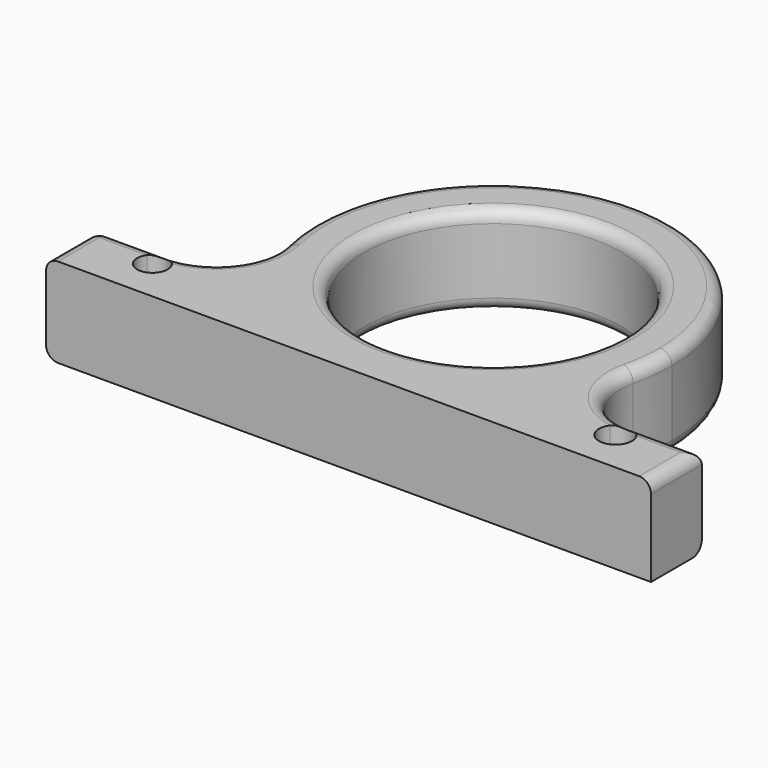
from build123d import *

# Parameters (mm, degrees)
F1_DEPTH = 7.62
F2_R     = 10.9999999964
F3_DEPTH = 25.4
F4_R     = 5.08
F5_R     = 1.016
F7_DEPTH = 25.4


with BuildPart() as f1:
    # F0 (on Top) → F1 (new body)
    with BuildSketch(Plane.XY):
        with BuildLine():
            ThreePointArc((11.5985213726, 1.7570371274), (0, -3.5970182051), (-11.5985213726, 1.7570371274))
            Line((-11.5985213726, 1.7570371274), (-25.8833840489, 1.7570371274))
            Line((-25.8833840489, 1.7570371274), (-25.8833840489, -3.6632029805))
            Line((-25.8833840489, -3.6632029805), (25.7008876652, -3.6632029805))
            Line((25.7008876652, -3.6632029805), (25.7008876652, 1.7570371274))
            Line((25.7008876652, 1.7570371274), (11.5985213726, 1.7570371274))
        make_face()
        with BuildLine():
            Line((11.5985213726, 1.7570371274), (-11.5985213726, 1.7570371274))
            ThreePointArc((-11.5985213726, 1.7570371274), (0, -3.5970182051), (11.5985213726, 1.7570371274))
        make_face()
        with BuildLine():
            ThreePointArc((11.5985213726, 1.7570371274), (14.3006829508, 6.3753383806), (15.24, 11.6429817949))
            ThreePointArc((15.24, 11.6429817949), (-5.2676434144, 25.9436647457), (-11.5985213726, 1.7570371274))
            Line((-11.5985213726, 1.7570371274), (11.5985213726, 1.7570371274))
        make_face()
    extrude(amount=F1_DEPTH)

    # F2 (on face) → F3 (cut)
    with BuildSketch(Plane.XY.offset(7.62)):
        with Locations((0, 11.6429817949)):
            Circle(F2_R)
    extrude(amount=-F3_DEPTH, mode=Mode.SUBTRACT)

    # F4
    f4_edges = [f1.edges().sort_by_distance(p)[0] for p in [
        (11.598521, 1.757037, 3.81),
        (-11.598521, 1.757037, 3.81),
    ]]
    fillet(f4_edges, radius=F4_R)

    # F5
    f5_edges = [f1.edges().sort_by_distance(p)[0] for p in [
        (22.722188, 1.757037, 7.62),
        (25.700888, -0.953083, 7.62),
        (-25.883384, -0.953083, 7.62),
        (-25.883384, -0.953083, 0),
        (-25.883384, 1.757037, 3.81),
        (-15.74912, 3.698339, 0),
        (-11, 11.642982, 0),
        (-11, 11.642982, 7.62),
    ]]
    fillet(f5_edges, radius=F5_R)

    # F6 (on face) → F7 (cut)
    with BuildSketch(Plane.XY.offset(7.62)):
        with BuildLine():
            ThreePointArc((-20.8215160971, 0.7410371274), (-20.1389512493, -1.242951309), (-18.4486326608, 0))
            ThreePointArc((-18.4486326608, 0), (-18.5242578096, 0.4373005583), (-18.7423490876, 0.8238068789))
            ThreePointArc((-18.7423490876, 0.8238068789), (-19.2412104111, 0.7617648045), (-19.7434874288, 0.7410371274))
            Line((-19.7434874288, 0.7410371274), (-20.8215160971, 0.7410371274))
        make_face()
        with BuildLine():
            ThreePointArc((-19.7434874288, 0.7410371274), (-19.2412104111, 0.7617648045), (-18.7423490876, 0.8238068789))
            ThreePointArc((-18.7423490876, 0.8238068789), (-19.8025815622, 1.3011218445), (-20.8215160971, 0.7410371274))
            Line((-20.8215160971, 0.7410371274), (-19.7434874288, 0.7410371274))
        make_face()
        with BuildLine():
            ThreePointArc((19.7434874288, 0.7410371274), (19.1766797265, 0.7674452936), (18.6147829008, 0.8464409894))
            ThreePointArc((18.6147829008, 0.8464409894), (19.2973775419, -1.3384402224), (21.1543156467, 0))
            ThreePointArc((21.1543156467, 0), (21.1007262226, 0.3851481753), (20.9440290716, 0.7410371274))
            Line((20.9440290716, 0.7410371274), (19.7434874288, 0.7410371274))
        make_face()
        with BuildLine():
            ThreePointArc((20.9440290716, 0.7410371274), (19.8072654524, 1.4093859031), (18.6147829008, 0.8464409894))
            ThreePointArc((18.6147829008, 0.8464409894), (19.1766797265, 0.7674452936), (19.7434874288, 0.7410371274))
            Line((19.7434874288, 0.7410371274), (20.9440290716, 0.7410371274))
        make_face()
    extrude(amount=-F7_DEPTH, mode=Mode.SUBTRACT)


solid = f1.part
